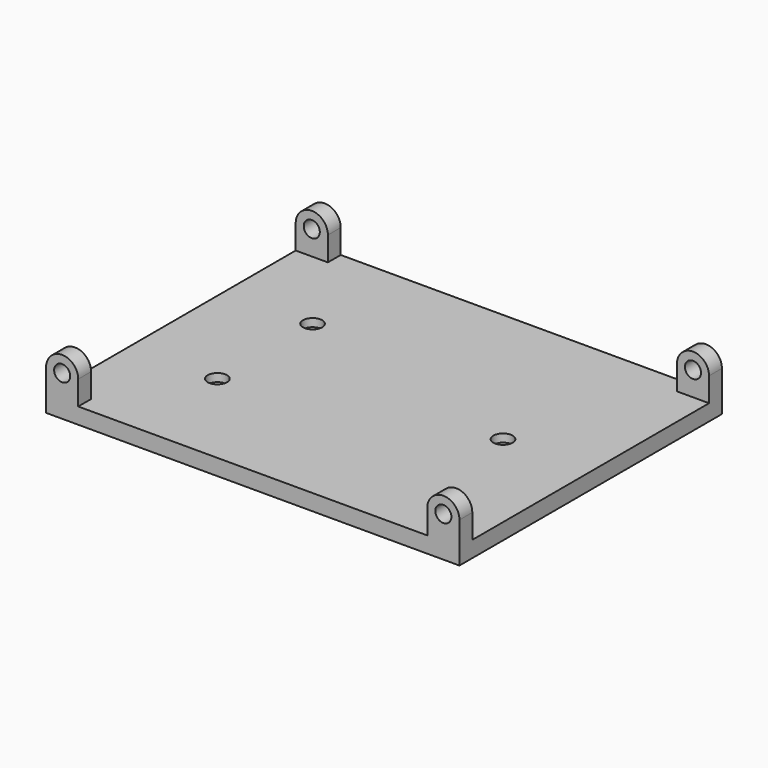
from build123d import *

# Parameters (mm, degrees)
F0_W           = 128.5
F0_H           = 102
F1_DEPTH       = 5
F3_DEPTH       = 5
F5_D           = 5
F8_D           = 3.5
F8_CBORE_D     = 6
F8_CBORE_DEPTH = 2.5


with BuildPart() as f1:
    # F0 (on Top) → F1 (new body)
    with BuildSketch(Plane.XY):
        Rectangle(F0_W, F0_H)
    extrude(amount=F1_DEPTH)

    # F2 (on face) → F3 (join)
    with BuildSketch(Plane.XZ.offset(51)):
        with BuildLine():
            Line((-64.25, 12.5), (-64.25, 5))
            Line((-64.25, 5), (-54.25, 5))
            Line((-54.25, 5), (-54.25, 12.5))
            ThreePointArc((-54.25, 12.5), (-59.25, 17.5), (-64.25, 12.5))
        make_face()
        with BuildLine():
            Line((54.25, 12.5), (54.25, 5))
            Line((54.25, 5), (64.25, 5))
            Line((64.25, 5), (64.25, 12.5))
            ThreePointArc((64.25, 12.5), (59.25, 17.5), (54.25, 12.5))
        make_face()
    extrude(amount=-F3_DEPTH)

    # F5 (through all)
    with Locations(Plane.XZ.offset(51)):
        with Locations((-59.25, 12.5), (59.25, 12.5)):
            Hole(F5_D / 2)

    # F6: F1 across plane


with BuildPart() as f1_1:
    add(f1.part)
    add(f1.part.mirror(Plane.XZ))

    # F8 (through all)
    with Locations(Plane.XY.offset(5)):
        with Locations((-37, 18.5), (-37, -18.5), (37, 0)):
            CounterBoreHole(F8_D / 2, F8_CBORE_D / 2, F8_CBORE_DEPTH)


solid = f1_1.part
